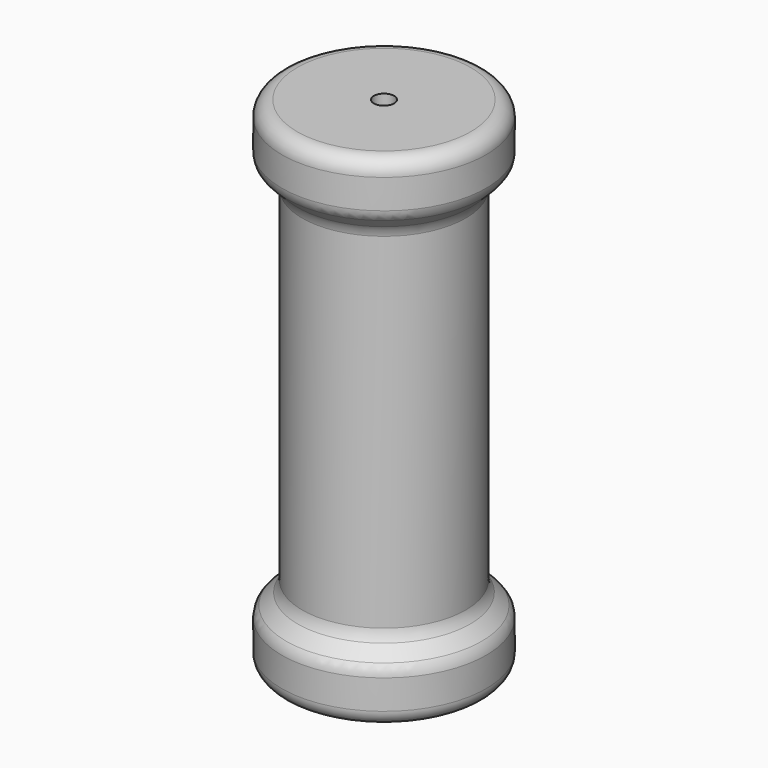
from build123d import *

# Parameters (mm, degrees)
F2_R = 3


with BuildPart() as f1:
    # F0 (on Front) → F1 (revolve)
    with BuildSketch(Plane.XZ):
        Polygon((-20, 39), (-16, 35), (-16, 0), (-16, -35), (-20, -39), (-20, -49), (-2, -49), (-2, 0), (-2, 49), (-20, 49), align=None)
    revolve(axis=Axis((0, 0, -0.057567), (0, 0, -1)))

    # F2
    f2_edges = [f1.edges().sort_by_distance(p)[0] for p in [
        (16, 0, 35),
        (16, 0, -35),
        (20, 0, -39),
        (20, 0, -49),
        (20, 0, 39),
        (20, 0, 49),
    ]]
    fillet(f2_edges, radius=F2_R)


solid = f1.part
